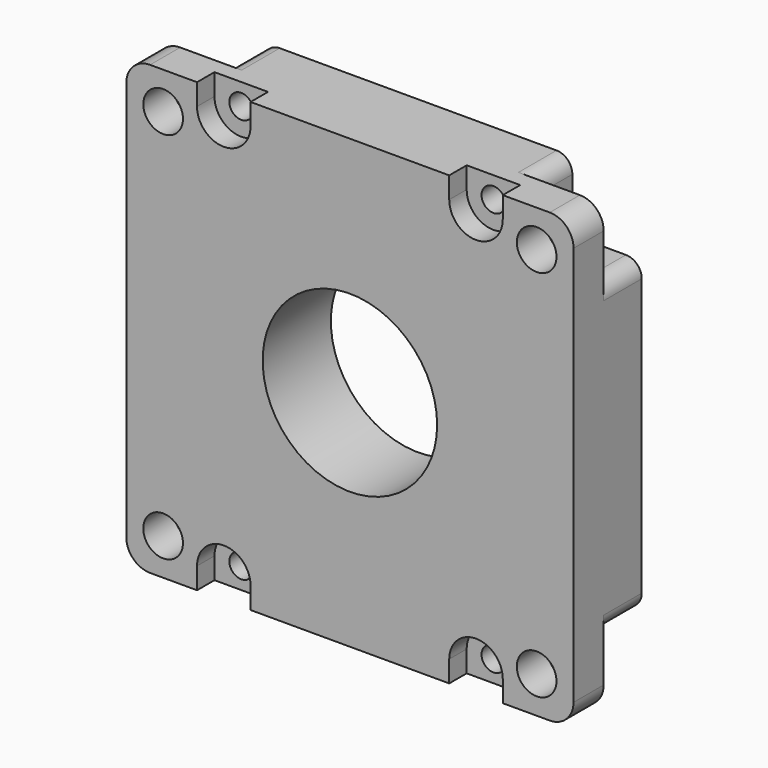
from build123d import *

# Parameters (mm, degrees)
SKETCH003_R          = 5.5
PAD002_DEPTH         = 6
SKETCH_R             = 5.5
PAD_DEPTH            = 5
SKETCH005_R          = 19.05
SKETCH005_R_2        = 5.5
PAD004_DEPTH         = 1.1
SKETCH006_R          = 2.5
POCKET_DEPTH         = 11.001
SKETCH007_R          = 1.5
POCKET001_DEPTH      = 12.101
POCKET004_DEPTH      = 3
SKETCH018_R          = 11
POCKET009_DEPTH      = 11
POCKET009_FACE32_R   = 2.5
POCKET009_FACE32_R_2 = 19.05
POCKET014_DEPTH      = 0.25
POCKET014_FACE62_R   = 19.05
POCKET014_FACE62_R_2 = 5.5
POCKET021_DEPTH      = 1.35


with BuildPart() as part:
    # Sketch003 → Pad002 (new body)
    with BuildSketch(Plane(origin=(0, 5, 0), x_dir=(1, 0, 0), z_dir=(0, 1, 0))):
        with BuildLine():
            Line((-26.2, 19.45), (-23.7, 19.45))
            ThreePointArc((-23.7, 19.45), (-20.694796, 20.694796), (-19.45, 23.7))
            Line((-19.45, 23.7), (-19.45, 26.2))
            ThreePointArc((-17.45, 28.2), (-18.864214, 27.614214), (-19.45, 26.2))
            Line((-17.45, 28.2), (17.45, 28.2))
            ThreePointArc((19.45, 26.2), (18.864214, 27.614214), (17.45, 28.2))
            Line((19.45, 26.2), (19.45, 23.7))
            ThreePointArc((19.45, 23.7), (20.694796, 20.694796), (23.7, 19.45))
            Line((23.7, 19.45), (26.2, 19.45))
            ThreePointArc((28.2, 17.45), (27.614214, 18.864214), (26.2, 19.45))
            Line((28.2, 17.45), (28.2, -17.45))
            ThreePointArc((26.2, -19.45), (27.614214, -18.864214), (28.2, -17.45))
            Line((23.7, -19.45), (26.2, -19.45))
            ThreePointArc((23.7, -19.45), (20.694796, -20.694796), (19.45, -23.7))
            Line((19.45, -26.2), (19.45, -23.7))
            ThreePointArc((17.45, -28.2), (18.864214, -27.614214), (19.45, -26.2))
            Line((-17.45, -28.2), (17.45, -28.2))
            ThreePointArc((-19.45, -26.2), (-18.864214, -27.614214), (-17.45, -28.2))
            Line((-19.45, -26.2), (-19.45, -23.7))
            ThreePointArc((-19.45, -23.7), (-20.694796, -20.694796), (-23.7, -19.45))
            Line((-26.2, -19.45), (-23.7, -19.45))
            ThreePointArc((-28.2, -17.45), (-27.614214, -18.864214), (-26.2, -19.45))
            Line((-28.2, 17.45), (-28.2, -17.45))
            ThreePointArc((-26.2, 19.45), (-27.614214, 18.864214), (-28.2, 17.45))
        make_face()
        Circle(SKETCH003_R, mode=Mode.SUBTRACT)
    extrude(amount=PAD002_DEPTH)

    # Sketch (on Face26 of Pad002) → Pad (join)
    with BuildSketch(Plane.XZ.offset(-5)):
        with BuildLine():
            Line((-28.2, 25.2), (-28.2, -25.2))
            ThreePointArc((-28.2, -25.2), (-27.32132, -27.32132), (-25.2, -28.2))
            Line((-25.2, -28.2), (25.2, -28.2))
            ThreePointArc((25.2, -28.2), (27.32132, -27.32132), (28.2, -25.2))
            Line((28.2, 25.2), (28.2, -25.2))
            ThreePointArc((28.2, 25.2), (27.32132, 27.32132), (25.2, 28.2))
            Line((-25.2, 28.2), (25.2, 28.2))
            ThreePointArc((-25.2, 28.2), (-27.32132, 27.32132), (-28.2, 25.2))
        make_face()
        Circle(SKETCH_R, mode=Mode.SUBTRACT)
    extrude(amount=PAD_DEPTH)

    # Sketch005 (on Face33 of Pad) → Pad004 (join)
    with BuildSketch(Plane.XZ):
        Circle(SKETCH005_R)
        Circle(SKETCH005_R_2, mode=Mode.SUBTRACT)
    extrude(amount=PAD004_DEPTH)

    # Sketch006 (on Face33 of Pad004) → Pocket (cut, through all)
    with BuildSketch(Plane.XZ):
        with Locations((-23.55, 23.55)):
            Circle(SKETCH006_R)
        with Locations((23.55, 23.55)):
            Circle(SKETCH006_R)
        with Locations((23.55, -23.55)):
            Circle(SKETCH006_R)
        with Locations((-23.55, -23.55)):
            Circle(SKETCH006_R)
    extrude(amount=-POCKET_DEPTH, mode=Mode.SUBTRACT)

    # Sketch007 (on Face5 of Pocket) → Pocket001 (cut, through all)
    with BuildSketch(Plane(origin=(0, 11, 0), x_dir=(1, 0, 0), z_dir=(0, 1, 0))):
        with Locations((-15.9, 25.5)):
            Circle(SKETCH007_R)
        with Locations((15.9, 25.5)):
            Circle(SKETCH007_R)
        with Locations((-15.9, -25.5)):
            Circle(SKETCH007_R)
        with Locations((15.9, -25.5)):
            Circle(SKETCH007_R)
    extrude(amount=-POCKET001_DEPTH, mode=Mode.SUBTRACT)

    # Sketch012 (on Face38 of Pocket001) → Pocket004 (cut)
    with BuildSketch(Plane.XZ):
        with BuildLine():
            Line((-19.275, -25.5), (-19.275, -30.5))
            Line((-19.275, -30.5), (-12.525, -30.5))
            Line((-12.525, -30.5), (-12.525, -25.5))
            ThreePointArc((-12.525, -25.5), (-15.9, -22.125), (-19.275, -25.5))
        make_face()
        with BuildLine():
            Line((12.525, -25.5), (12.525, -30.5))
            Line((12.525, -30.5), (19.275, -30.5))
            Line((19.275, -30.5), (19.275, -25.5))
            ThreePointArc((19.275, -25.5), (15.9, -22.125), (12.525, -25.5))
        make_face()
        with BuildLine():
            Line((-19.275, 25.5), (-19.275, 30.5))
            Line((-19.275, 30.5), (-12.525, 30.5))
            Line((-12.525, 30.5), (-12.525, 25.5))
            ThreePointArc((-19.275, 25.5), (-15.9, 22.125), (-12.525, 25.5))
        make_face()
        with BuildLine():
            Line((12.525, 25.5), (12.525, 30.5))
            Line((12.525, 30.5), (19.275, 30.5))
            Line((19.275, 30.5), (19.275, 25.5))
            ThreePointArc((12.525, 25.5), (15.9, 22.125), (19.275, 25.5))
        make_face()
    extrude(amount=-POCKET004_DEPTH, mode=Mode.SUBTRACT)

    # Sketch018 (on Face5 of Pocket004) → Pocket009 (cut)
    with BuildSketch(Plane(origin=(0, 11, 0), x_dir=(1, 0, 0), z_dir=(0, 1, 0))):
        Circle(SKETCH018_R)
    extrude(amount=-POCKET009_DEPTH, mode=Mode.SUBTRACT)

    # Pocket009 Face32 → Pocket014 (cut)
    with BuildSketch(Plane(origin=(0, 0, 0), x_dir=(-1, 0, 0), z_dir=(0, -1, 0))):
        with BuildLine():
            Line((19.275, -28.2), (25.2, -28.2))
            ThreePointArc((25.2, -28.2), (27.32132, -27.32132), (28.2, -25.2))
            Line((28.2, -25.2), (28.2, 25.2))
            ThreePointArc((28.2, 25.2), (27.32132, 27.32132), (25.2, 28.2))
            Line((25.2, 28.2), (19.275, 28.2))
            Line((19.275, 28.2), (19.275, 25.5))
            ThreePointArc((19.275, 25.5), (15.9, 22.125), (12.525, 25.5))
            Line((12.525, 25.5), (12.525, 28.2))
            Line((12.525, 28.2), (-12.525, 28.2))
            Line((-12.525, 28.2), (-12.525, 25.5))
            ThreePointArc((-12.525, 25.5), (-15.9, 22.125), (-19.275, 25.5))
            Line((-19.275, 25.5), (-19.275, 28.2))
            Line((-19.275, 28.2), (-25.2, 28.2))
            ThreePointArc((-25.2, 28.2), (-27.32132, 27.32132), (-28.2, 25.2))
            Line((-28.2, 25.2), (-28.2, -25.2))
            ThreePointArc((-28.2, -25.2), (-27.32132, -27.32132), (-25.2, -28.2))
            Line((-25.2, -28.2), (-19.275, -28.2))
            Line((-19.275, -28.2), (-19.275, -25.5))
            ThreePointArc((-19.275, -25.5), (-15.9, -22.125), (-12.525, -25.5))
            Line((-12.525, -25.5), (-12.525, -28.2))
            Line((-12.525, -28.2), (12.525, -28.2))
            Line((12.525, -28.2), (12.525, -25.5))
            ThreePointArc((12.525, -25.5), (15.9, -22.125), (19.275, -25.5))
            Line((19.275, -25.5), (19.275, -28.2))
        make_face()
        with Locations((23.55, -23.55)):
            Circle(POCKET009_FACE32_R, mode=Mode.SUBTRACT)
        with Locations((23.55, 23.55)):
            Circle(POCKET009_FACE32_R, mode=Mode.SUBTRACT)
        Circle(POCKET009_FACE32_R_2, mode=Mode.SUBTRACT)
        with Locations((-23.55, -23.55)):
            Circle(POCKET009_FACE32_R, mode=Mode.SUBTRACT)
        with Locations((-23.55, 23.55)):
            Circle(POCKET009_FACE32_R, mode=Mode.SUBTRACT)
    extrude(amount=-POCKET014_DEPTH, mode=Mode.SUBTRACT)

    # Pocket014 Face62 → Pocket021 (cut)
    with BuildSketch(Plane(origin=(0, -1.1, 0), x_dir=(-1, 0, 0), z_dir=(0, -1, 0))):
        Circle(POCKET014_FACE62_R)
        Circle(POCKET014_FACE62_R_2, mode=Mode.SUBTRACT)
    extrude(amount=-POCKET021_DEPTH, mode=Mode.SUBTRACT)


solid = part.part
